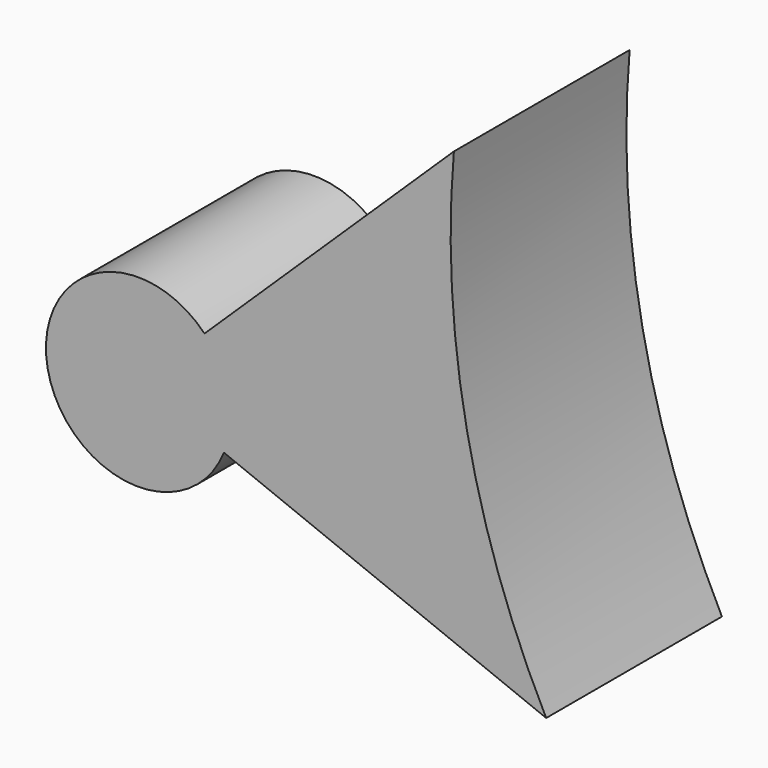
from build123d import *

# Parameters (mm, degrees)
F1_DEPTH = 25


with BuildPart() as f1:
    # F0 (on Front) → F1 (new body)
    with BuildSketch(Plane.XZ):
        with BuildLine():
            ThreePointArc((-13.7071640516, -18.1459867489), (-13.1456272351, -16.2320136033), (-12.9561692923, -14.2463846132))
            ThreePointArc((-12.9561692923, -14.2463846132), (-13.7233481178, -10.3065632995), (-15.9127772893, -6.9424653168))
            Line((-15.9127772893, -6.9424653168), (-23.4561692923, -14.2463846132))
            Line((-23.4561692923, -14.2463846132), (-13.7071640516, -18.1459867489))
        make_face()
        with BuildLine():
            ThreePointArc((-15.9127772893, -6.9424653168), (-13.7233481178, -10.3065632995), (-12.9561692923, -14.2463846132))
            ThreePointArc((-12.9561692923, -14.2463846132), (-13.1456272351, -16.2320136033), (-13.7071640516, -18.1459867489))
            Line((-13.7071640516, -18.1459867489), (22.9676651872, -32.8159185928))
            ThreePointArc((22.9676651872, -32.8159185928), (13.9420529566, -6.883876802), (12.4647450079, 20.5341834649))
            Line((12.4647450079, 20.5341834649), (-15.9127772893, -6.9424653168))
        make_face()
        with BuildLine():
            Line((-23.4561692923, -14.2463846132), (-15.9127772893, -6.9424653168))
            ThreePointArc((-15.9127772893, -6.9424653168), (-33.7584250516, -16.2745676107), (-13.7071640516, -18.1459867489))
            Line((-13.7071640516, -18.1459867489), (-23.4561692923, -14.2463846132))
        make_face()
    extrude(amount=F1_DEPTH)


solid = f1.part
